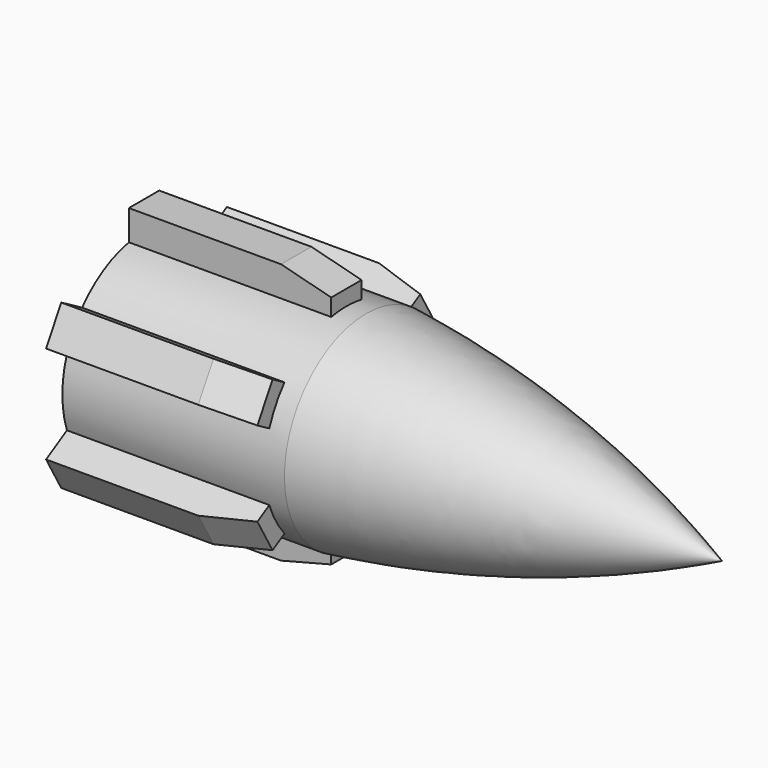
from build123d import *

# Parameters (mm, degrees)
F0_W     = 41.1158509059
F0_H     = 7.4705865232
F2_W     = 7.0160552859
F2_H     = 10.5016599446
F3_DEPTH = 37.465
F5_DEPTH = 12.7
F6_COUNT = 6
F6_ANGLE = 300


with BuildPart() as f1:
    # F0 (on Front) → F1 (revolve)
    with BuildSketch(Plane.XZ):
        with BuildLine():
            ThreePointArc((0, 11.43), (31.1266416002, 8.7728010319), (61.1094114142, 0))
            Line((61.1094114142, 0), (65.8708127789, 0))
            ThreePointArc((65.8708127789, 0), (33.7171403696, 12.1747300185), (0, 18.9005865232))
            Line((0, 18.9005865232), (0, 11.43))
        make_face()
        with Locations((-20.557925453, 15.1652932616)):
            Rectangle(F0_W, F0_H)
    revolve(axis=Axis((23.3829392621, 0, 0), (1, 0, 0)))

    # F2 (on face) → F3 (join)
    with BuildSketch(Plane(origin=(-41.1158509059, 0, 0), x_dir=(0, -1, 0), z_dir=(-1, 0, 0))):
        with Locations((0, 18.9005865232)):
            Rectangle(F2_W, F2_H)
    extrude(amount=-F3_DEPTH)

    # F4 (on Front) → F5 (cut, symmetric)
    with BuildSketch(Plane.XZ):
        Polygon((4.8572686501, 31.9770164788), (-21.3180109859, 26.3102017343), (4.8572686501, 19.5639971644), align=None)
    extrude(amount=F5_DEPTH, both=True, mode=Mode.SUBTRACT)

    # F6: F1 ×6 about axis
    f6_axis = Axis((0, 0, 0), (-1, 0, 0))


with BuildPart() as f1_1:
    add(f1.part)
    for i in range(1, F6_COUNT):
        add(f1.part.rotate(f6_axis, i * F6_ANGLE / (F6_COUNT - 1)))


solid = f1_1.part
